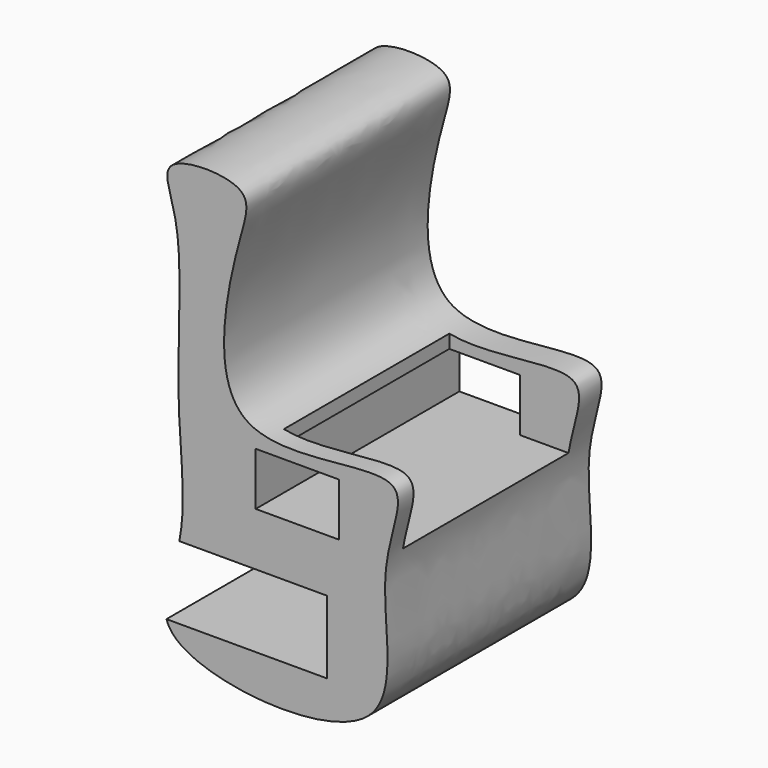
from build123d import *

# Parameters (mm, degrees)
F1_DEPTH      = 80
F2_W          = 62.7822438255
F2_H          = 22.8881537914
F3_DEPTH      = 80
F3_DEPTH_BACK = 25
F4_W          = 26.1414963752
F4_H          = 16.635499429
F5_DEPTH      = 80
F5_DEPTH_BACK = 25
F6_W          = 72.8337317705
F6_H          = 65.034000203
F7_DEPTH      = 23.5235095024


with BuildPart() as f1:
    # F0 (on Front) → F1 (new body)
    with BuildSketch(Plane.XZ):
        with BuildLine():
            add(Edge.make_bspline(
                [(-39.5517498255, 48.7182438374), (-36.9411001736, 36.1674084826), (-40.8006993614, -0.9792298389), (-33.7856676866, -39.6166565057), (-54.6015240943, -74.837951869), (39.2646260008, -82.939587398), (20.2637184984, -28.4774134352), (41.1810048431, 7.569214719), (-33.9394102323, -17.0209657693), (-20.4689639982, 48.30953683), (-13.561672252, 66.2159153271), (-47.0937346307, 66.1752149245), (-40.9657597467, 55.5161708199), (-39.5517498255, 48.7182438374)],
                knots=[0, 0, 0, 0, 0.1096003653, 0.2108530807, 0.2901356352, 0.4122502679, 0.5154592212, 0.5926392455, 0.6986444037, 0.8079161121, 0.8685988242, 0.9406369967, 1, 1, 1, 1], degree=3))
        make_face()
    extrude(amount=F1_DEPTH)

    # F2 (on face) → F3 (cut, two sides)
    with BuildSketch(Plane.XZ.offset(80)) as f3_sk:
        with Locations((-23.2327724807, -51.6931340098)):
            Rectangle(F2_W, F2_H)
    extrude(amount=-F3_DEPTH, mode=Mode.SUBTRACT)
    extrude(f3_sk.sketch, amount=F3_DEPTH_BACK, mode=Mode.SUBTRACT)

    # F4 (on face) → F5 (cut, two sides)
    with BuildSketch(Plane.XZ.offset(80)) as f5_sk:
        with Locations((-1.1780112982, -15.2057597879)):
            Rectangle(F4_W, F4_H)
    extrude(amount=-F5_DEPTH, mode=Mode.SUBTRACT)
    extrude(f5_sk.sketch, amount=F5_DEPTH_BACK, mode=Mode.SUBTRACT)

    # F6 (on Top) → F7 (cut, through all)
    with BuildSketch(Plane.XY):
        with Locations((26.0941833258, -41.3603717461)):
            Rectangle(F6_W, F6_H)
    extrude(amount=-F7_DEPTH, mode=Mode.SUBTRACT)


solid = f1.part
